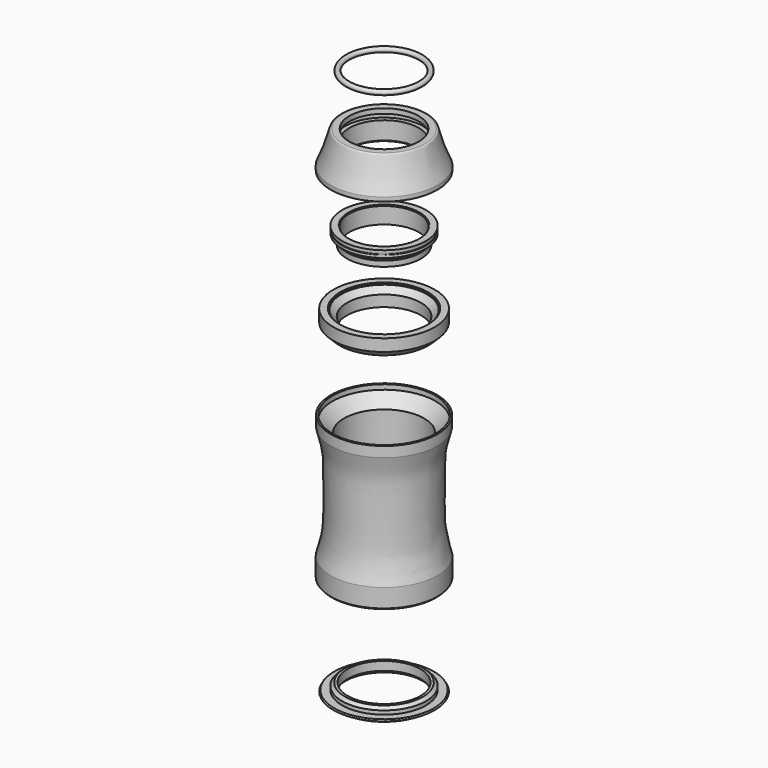
from build123d import *

# Parameters (mm, degrees)
F0_R = 0.9957566989


with BuildPart() as f1:
    # F0 (on Front) → F1 (revolve)
    with BuildSketch(Plane.XZ):
        with BuildLine():
            Line((16.8283554569, 65.1518106461), (14.3, 65.1518106461))
            Line((14.3, 65.1518106461), (14.3, 63.1608068943))
            Line((14.3, 63.1608068943), (16.148812215, 63.1608068943))
            Line((16.148812215, 63.1608068943), (16.148812215, 60.8123168349))
            Line((16.148812215, 60.8123168349), (14.3, 60.8123168349))
            Line((14.3, 60.8123168349), (14.3, 53.4692518413))
            Line((14.3, 53.4692518413), (14.7441998899, 52.9925003648))
            Line((14.7441998899, 52.9925003648), (20.3162404552, 52.9925003648))
            Line((20.3162404552, 52.9925003648), (20.3162404552, 52.4710528553))
            Line((20.3162404552, 52.4710528553), (20.6440063968, 52.4710528553))
            Line((20.6440063968, 52.4710528553), (20.6440063968, 52.1879829466))
            Line((20.6440063968, 52.1879829466), (21.1654539064, 52.1879829466))
            Line((21.1654539064, 52.1879829466), (21.4932217106, 51.8602132797))
            Line((21.4932217106, 51.8602132797), (21.4932217106, 50.1518106461))
            Line((21.4932217106, 50.1518106461), (22, 50.1518106461))
            Line((22, 50.1518106461), (22, 51.8602132797))
            add(Edge.make_bspline(
                [(16.8283554569, 65.1518106461), (17.23413938, 65.1518106461), (17.6399390241, 64.9287983501), (18.5311226871, 61.3673458397), (20.326021794, 55.5923897207), (21.5972293977, 52.8655577498), (22, 51.8602132797)],
                knots=[0, 0, 0, 0, 0.119154417, 0.3711111319, 0.7237189122, 1, 1, 1, 1], degree=3))
        make_face()
    revolve(axis=Axis((0, 0, -14.7160999477), (0, 0, 1)))


with BuildPart() as f1b:
    # F0 (on Front) → F1, piece 2 (revolve)
    with BuildSketch(Plane.XZ):
        Polygon((14.6160499935, 29.6826232225), (14.3, 29.6826232225), (14.3, 22.9852069169), (15.25, 22.9852069169), (15.25, 25.2108462155), (16.2434427787, 26.2042889941), (16.2434427787, 26.6765785616), (16.7157323461, 26.6765785616), (17.2799736336, 27.2408198491), (17.2799736336, 28.4348294064), (17.0483365413, 28.4348294064), (17.0483365413, 28.9628576413), (17.2799736336, 28.9628576413), (17.2799736336, 30.054923147), (14.6160499935, 30.054923147), align=None)
    revolve(axis=Axis((0, 0, -14.7160999477), (0, 0, 1)))


with BuildPart() as f1c:
    # F0 (on Front) → F1, piece 3 (revolve)
    with BuildSketch(Plane.XZ):
        Polygon((15.25, -2.92), (15.25, -7.5), (18.36, -7.5), (20.9, -4.96), (20.9, 0), (18.0898006689, 0), (18.0898006689, -0.5801993311), (17.5898006689, -0.5801993311), align=None)
    revolve(axis=Axis((0, 0, -14.7160999477), (0, 0, 1)))


with BuildPart() as f1d:
    # F0 (on Front) → F1, piece 4 (revolve)
    with BuildSketch(Plane.XZ):
        with BuildLine():
            Line((21.9127276242, -38.5628663231), (21.2121997248, -38.5628663231))
            Line((21.2121997248, -38.5628663231), (21.2121997248, -40.5628663231))
            Line((21.2121997248, -40.5628663231), (16.5, -45.2750660479))
            Line((16.5, -45.2750660479), (16.5, -86.6612643003))
            Line((16.5, -86.6612643003), (21.0192145121, -91.1804788124))
            Line((21.0192145121, -91.1804788124), (21.0192145121, -97.9804788124))
            Line((21.0192145121, -97.9804788124), (21.4590003043, -97.9804788124))
            Line((21.4590003043, -97.9804788124), (22, -97.4311977625))
            Line((22, -97.4311977625), (22, -89.8156091571))
            add(Edge.make_bspline(
                [(21.9127276242, -42.802339815), (21.6013378236, -43.9206426087), (21.059977316, -45.5960371829), (20.1243729921, -49.761119442), (19.8061256689, -53.0051011772), (19.5897681928, -57.002491067), (19.4647856535, -75.873793986), (19.937706313, -81.5036687054), (21.202021668, -86.8329582231), (21.6532495275, -88.9052331424), (22, -89.8156091571)],
                knots=[0, 0, 0, 0, 0.0945824073, 0.2052456391, 0.3001114757, 0.410998709, 0.6456097364, 0.783014573, 0.9048515658, 1, 1, 1, 1], degree=3))
            Line((21.9127276242, -42.802339815), (21.9127276242, -38.5628663231))
        make_face()
    revolve(axis=Axis((0, 0, -14.7160999477), (0, 0, 1)))


with BuildPart() as f1e:
    # F0 (on Front) → F1, piece 5 (revolve)
    with BuildSketch(Plane.XZ):
        Polygon((16.0216822848, -135.7330828905), (15, -135.7330828905), (15, -139.2986178398), (15.9201383218, -140.3912752867), (18.5655358806, -140.3912752867), (20.8658802882, -139.0110701323), (20.5106784214, -138.4190663818), (17.3003453389, -138.4190663818), (17.3003453389, -136.8832439184), align=None)
    revolve(axis=Axis((0, 0, -14.7160999477), (0, 0, 1)))


with BuildPart() as f1f:
    # F0 (on Front) → F1, piece 6 (revolve)
    with BuildSketch(Plane.XZ):
        with Locations((15, 86.2263217568)):
            Circle(F0_R)
    revolve(axis=Axis((0, 0, -14.7160999477), (0, 0, 1)))


solid = Compound([f1.part, f1b.part, f1c.part, f1d.part, f1e.part, f1f.part])
